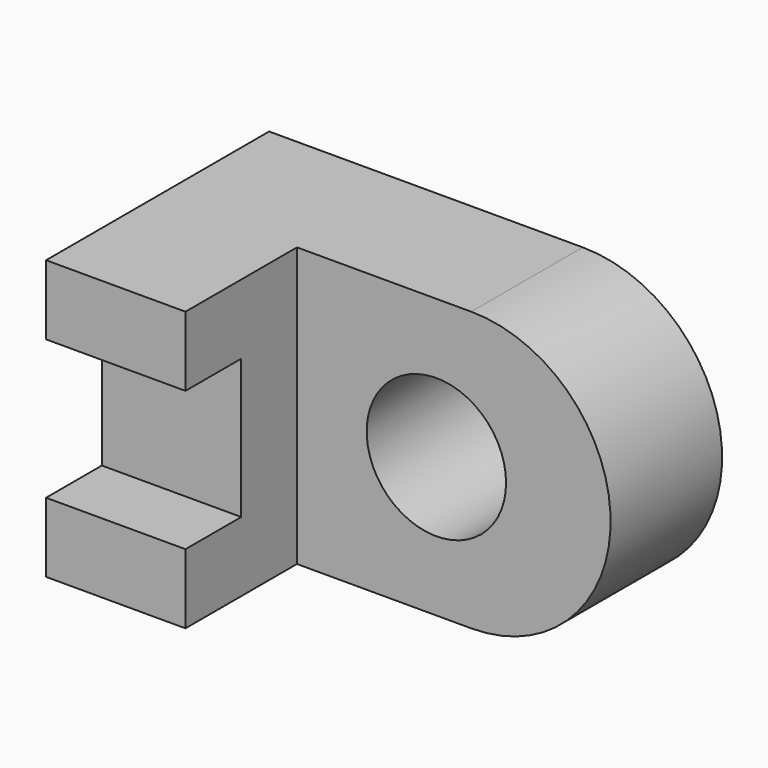
from build123d import *

# Parameters (mm, degrees)
F0_W     = 44.45
F0_H     = 25.4
F1_DEPTH = 25.4
F2_W     = 31.75
F2_H     = 12.7
F3_DEPTH = 25.4
F5_DEPTH = 25.4
F6_W     = 12.7
F6_H     = 12.7
F7_DEPTH = 6.35
F8_R     = 6.35
F9_DEPTH = 12.7


with BuildPart() as f1:
    # F0 (on Front) → F1 (new body)
    with BuildSketch(Plane.XZ):
        with Locations((22.225, 12.7)):
            Rectangle(F0_W, F0_H)
    extrude(amount=F1_DEPTH)

    # F2 (on face) → F3 (cut)
    with BuildSketch(Plane.XY.offset(25.4)):
        with Locations((28.575, -19.05)):
            Rectangle(F2_W, F2_H)
    extrude(amount=-F3_DEPTH, mode=Mode.SUBTRACT)

    # F4 (on face) → F5 (cut)
    with BuildSketch(Plane.XZ.offset(12.7)):
        with BuildLine():
            ThreePointArc((28.575, 25.4), (41.275, 12.7), (28.575, 0))
            Line((28.575, 0), (44.45, 0))
            Line((44.45, 0), (44.45, 25.4))
            Line((44.45, 25.4), (28.575, 25.4))
        make_face()
    extrude(amount=-F5_DEPTH, mode=Mode.SUBTRACT)

    # F6 (on face) → F7 (cut)
    with BuildSketch(Plane.XZ.offset(25.4)):
        with Locations((6.35, 12.7)):
            Rectangle(F6_W, F6_H)
    extrude(amount=-F7_DEPTH, mode=Mode.SUBTRACT)

    # F8 (on face) → F9 (cut, through all)
    with BuildSketch(Plane.XZ.offset(12.7)):
        with Locations((25.4, 12.7)):
            Circle(F8_R)
    extrude(amount=-F9_DEPTH, mode=Mode.SUBTRACT)


solid = f1.part
